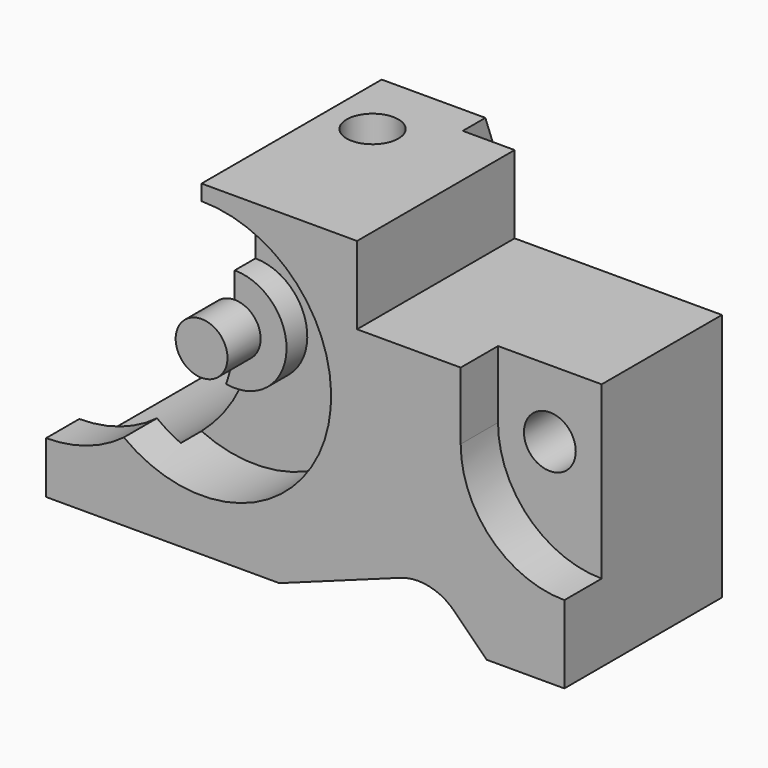
from build123d import *

# Parameters (mm, degrees)
F1_DEPTH  = 50
F2_R      = 25
F3_DEPTH  = 50.001
F4_R      = 25
F5_DEPTH  = 13
F6_R      = 10
F7_DEPTH  = 5
F8_R      = 5
F9_DEPTH  = 8
F11_DEPTH = 42
F13_DEPTH = 8.001
F14_W     = 40
F14_H     = 15
F15_DEPTH = 50.001
F17_DEPTH = 9
F18_R     = 5
F19_DEPTH = 41.001
F20_W     = 50
F20_H     = 12
F21_DEPTH = 63.001
F23_DEPTH = 70.003494
F24_R     = 5
F25_DEPTH = 63.001


with BuildPart() as f1:
    # F0 (on Front) → F1 (new body)
    with BuildSketch(Plane.XZ):
        with BuildLine():
            Line((50, 31.5), (-50, 31.5))
            Line((-50, 31.5), (-50, -31.5))
            Line((-50, -31.5), (-5, -31.5))
            Line((-5, -31.5), (18.339651, -23.005062))
            ThreePointArc((18.339651, -23.005062), (23.924249, -22.639028), (28.83092, -25.33092))
            Line((28.83092, -25.33092), (35, -31.5))
            Line((35, -31.5), (50, -31.5))
            Line((50, -31.5), (50, 31.5))
        make_face()
    extrude(amount=-F1_DEPTH)

    # F2 (on face) → F3 (cut, through all)
    with BuildSketch(Plane.XZ):
        with Locations((-50, 3.5)):
            Circle(F2_R)
    extrude(amount=-F3_DEPTH, mode=Mode.SUBTRACT)

    # F4 (on face) → F5 (cut)
    with BuildSketch(Plane.XZ):
        with Locations((-20, 3.5)):
            Circle(F4_R)
    extrude(amount=-F5_DEPTH, mode=Mode.SUBTRACT)

    # F6 (on face) → F7 (join)
    with BuildSketch(Plane.XZ.offset(-13)):
        with Locations((-20, 3.5)):
            Circle(F6_R)
    extrude(amount=F7_DEPTH)

    # F8 (on face) → F9 (join)
    with BuildSketch(Plane.XZ.offset(-8)):
        with Locations((-20, 3.5)):
            Circle(F8_R)
    extrude(amount=F9_DEPTH)

    # F10 (on face) → F11 (cut)
    with BuildSketch(Plane(origin=(0, 50, 0), x_dir=(-1, 0, 0), z_dir=(0, 1, 0))):
        with BuildLine():
            Line((20.002494, 13.5), (20.030616, 4.854996))
            ThreePointArc((20.030616, 4.854996), (70.689064, -18.224701), (50.109299, 33.499801))
            Line((50.109299, 33.499801), (20.002494, 33.499801))
            Line((20.002494, 33.499801), (20.002494, 13.5))
        make_face()
    extrude(amount=-F11_DEPTH, mode=Mode.SUBTRACT)

    # F12 (on face) → F13 (cut, through all)
    with BuildSketch(Plane(origin=(0, 8, 0), x_dir=(-1, 0, 0), z_dir=(0, 1, 0))):
        Polygon((50, 31.5), (20.002494, 31.5), (20.036855, 13.405593), (50, 13.405593), align=None)
    extrude(amount=-F13_DEPTH, mode=Mode.SUBTRACT)

    # F14 (on face) → F15 (cut, through all)
    with BuildSketch(Plane.XZ):
        with Locations((30, 24)):
            Rectangle(F14_W, F14_H)
    extrude(amount=-F15_DEPTH, mode=Mode.SUBTRACT)

    # F16 (on face) → F17 (cut)
    with BuildSketch(Plane.XZ):
        with BuildLine():
            Line((30, 16.5), (30, 3.5))
            ThreePointArc((30, 3.5), (35.857864, -10.642136), (50, -16.5))
            Line((50, -16.5), (50, 16.5))
            Line((50, 16.5), (30, 16.5))
        make_face()
    extrude(amount=-F17_DEPTH, mode=Mode.SUBTRACT)

    # F18 (on face) → F19 (cut, through all)
    with BuildSketch(Plane.XZ.offset(-9)):
        with Locations((40, 3.5)):
            Circle(F18_R)
    extrude(amount=-F19_DEPTH, mode=Mode.SUBTRACT)

    # F20 (on face) → F21 (cut, through all)
    with BuildSketch(Plane.XY.offset(31.5)):
        with Locations((25, 44)):
            Rectangle(F20_W, F20_H)
    extrude(amount=-F21_DEPTH, mode=Mode.SUBTRACT)

    # F22 (on face) → F23 (cut, through all)
    with BuildSketch(Plane(origin=(-20.002494, 0, 0), x_dir=(0, -1, 0), z_dir=(-1, 0, 0))):
        Polygon((-43.448536, 31.5), (-50, 31.5), (-50, 13.5), align=None)
    extrude(amount=-F23_DEPTH, mode=Mode.SUBTRACT)

    # F24 (on face) → F25 (cut, through all)
    with BuildSketch(Plane.XY.offset(31.5)):
        with Locations((-11.002494, 30)):
            Circle(F24_R)
    extrude(amount=-F25_DEPTH, mode=Mode.SUBTRACT)


solid = f1.part
